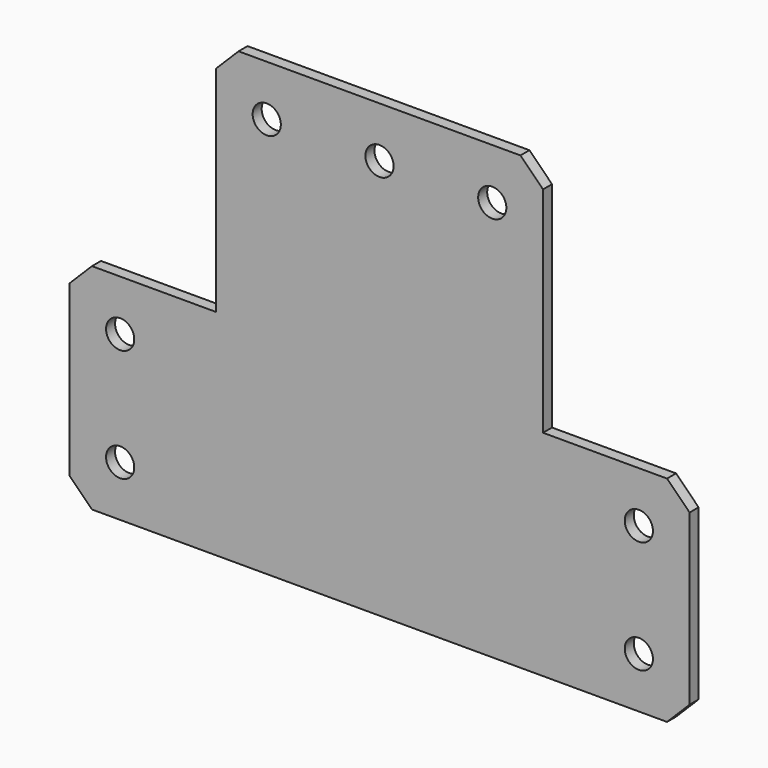
from build123d import *

# Parameters (mm, degrees)
F0_R     = 2.5
F1_DEPTH = 2
F2_SIZE  = 4


with BuildPart() as f1:
    # F0 (on Front) → F1 (new body)
    with BuildSketch(Plane.XZ):
        Polygon((-110, 38), (-110, 0), (0, 0), (0, 38), (-26, 38), (-26, 80), (-84, 80), (-84, 38), align=None)
        with Locations((-101, 9)):
            Circle(F0_R, mode=Mode.SUBTRACT)
        with Locations((-101, 29)):
            Circle(F0_R, mode=Mode.SUBTRACT)
        with Locations((-9, 9)):
            Circle(F0_R, mode=Mode.SUBTRACT)
        with Locations((-9, 29)):
            Circle(F0_R, mode=Mode.SUBTRACT)
        with Locations((-75, 71)):
            Circle(F0_R, mode=Mode.SUBTRACT)
        with Locations((-55, 71)):
            Circle(F0_R, mode=Mode.SUBTRACT)
        with Locations((-35, 71)):
            Circle(F0_R, mode=Mode.SUBTRACT)
    extrude(amount=F1_DEPTH)

    # F2
    f2_edges = [f1.edges().sort_by_distance(p)[0] for p in [
        (-26, -1, 80),
        (-84, -1, 80),
        (0, -1, 38),
        (-110, -1, 38),
        (0, -1, 0),
        (-110, -1, 0),
    ]]
    chamfer(f2_edges, length=F2_SIZE)


solid = f1.part
